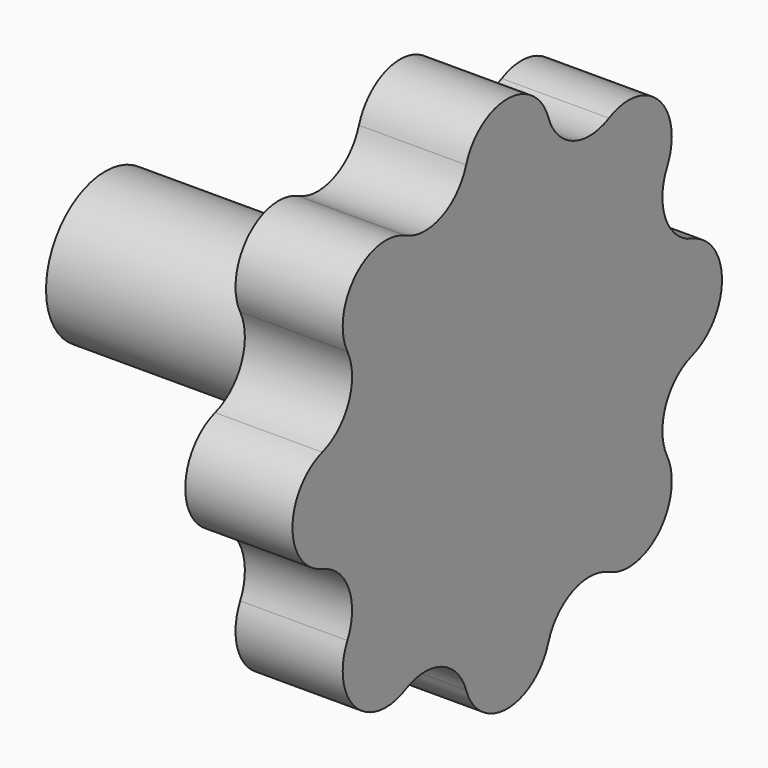
from build123d import *

# Parameters (mm, degrees)
PAD_DEPTH = 10


with BuildPart() as part:
    # Sketch → Revolution (revolve)
    with BuildSketch(Plane.XZ):
        Polygon((-37.5, 6.9), (-10, 6.9), (-10, 20), (0, 20), (0, 0), (-37.5, 0), align=None)
    revolve(axis=Axis((0, 0, 0), (1, 0, 0)))

    # Sketch001 (on Face4 of Revolution) → Pad (new body)
    with BuildSketch(Plane(origin=(0, 0, 0), x_dir=(0, 0, 1), z_dir=(1, 0, 0))):
        with BuildLine():
            ThreePointArc((-21.567608, 4.79146), (-25.041377, 0), (-21.567608, -4.79146))
            ThreePointArc((-18.638676, -11.862528), (-18.477591, -7.653669), (-21.567608, -4.79146))
            ThreePointArc((-18.638676, -11.862528), (-17.706928, -17.706928), (-11.862528, -18.638676))
            ThreePointArc((-4.79146, -21.567608), (-7.653669, -18.477591), (-11.862528, -18.638676))
            ThreePointArc((-4.79146, -21.567608), (0, -25.041377), (4.79146, -21.567608))
            ThreePointArc((11.862528, -18.638676), (7.653669, -18.477591), (4.79146, -21.567608))
            ThreePointArc((11.862528, -18.638676), (17.706928, -17.706928), (18.638676, -11.862528))
            ThreePointArc((21.567608, -4.79146), (18.477591, -7.653669), (18.638676, -11.862528))
            ThreePointArc((21.567608, -4.79146), (25.041377, 0), (21.567608, 4.79146))
            ThreePointArc((18.638676, 11.862528), (18.477591, 7.653669), (21.567608, 4.79146))
            ThreePointArc((18.638676, 11.862528), (17.706928, 17.706928), (11.862528, 18.638676))
            ThreePointArc((4.79146, 21.567608), (7.653669, 18.477591), (11.862528, 18.638676))
            ThreePointArc((4.79146, 21.567608), (0, 25.041377), (-4.79146, 21.567608))
            ThreePointArc((-11.862528, 18.638676), (-7.653669, 18.477591), (-4.79146, 21.567608))
            ThreePointArc((-11.862528, 18.638676), (-17.706928, 17.706928), (-18.638676, 11.862528))
            ThreePointArc((-21.567608, 4.79146), (-18.477591, 7.653669), (-18.638676, 11.862528))
        make_face()
    extrude(amount=-PAD_DEPTH)


solid = part.part
